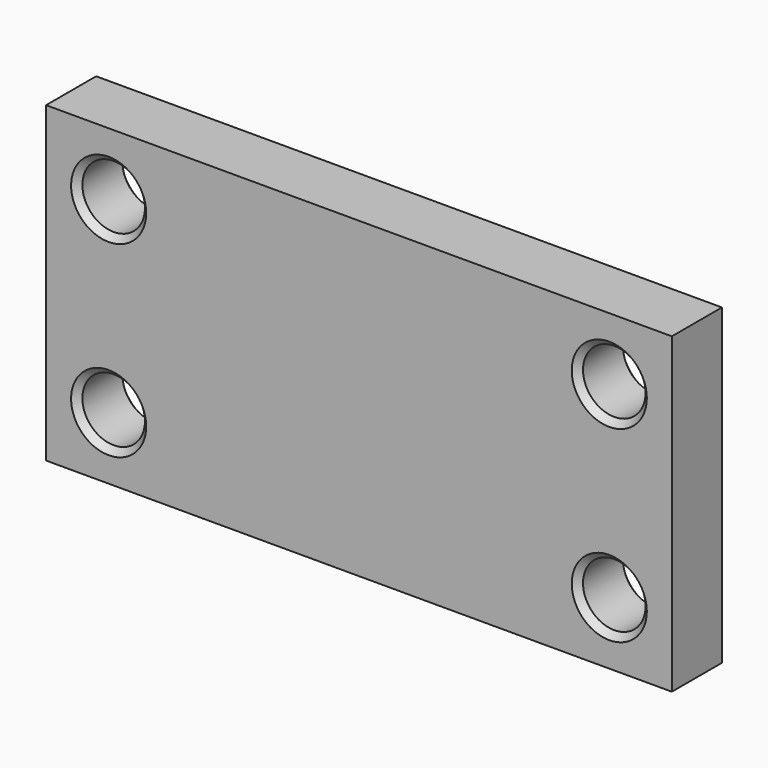
from build123d import *

# Parameters (mm, degrees)
F0_W     = 100
F0_H     = 50
F0_R     = 5
F1_DEPTH = 10
F2_SIZE  = 1
F3_SIZE  = 1
F4_SIZE  = 1


with BuildPart() as f1:
    # F0 (on Front) → F1 (new body)
    with BuildSketch(Plane.XZ):
        Rectangle(F0_W, F0_H)
        with Locations((-40, -15)):
            Circle(F0_R, mode=Mode.SUBTRACT)
        with Locations((40, -15)):
            Circle(F0_R, mode=Mode.SUBTRACT)
        with Locations((-40, 15)):
            Circle(F0_R, mode=Mode.SUBTRACT)
        with Locations((40, 15)):
            Circle(F0_R, mode=Mode.SUBTRACT)
    extrude(amount=F1_DEPTH)

    # F2
    f2_edges = [f1.edges().sort_by_distance(p)[0] for p in [
        (-45, -10, 15),
        (-45, -10, -15),
    ]]
    chamfer(f2_edges, length=F2_SIZE)

    # F3
    f3_edges = [f1.edges().sort_by_distance(p)[0] for p in [
        (35, -10, 15),
        (35, -10, -15),
    ]]
    chamfer(f3_edges, length=F3_SIZE)

    # F4
    f4_edges = [f1.edges().sort_by_distance(p)[0] for p in [
        (35, 0, 15),
        (-45, 0, 15),
        (-45, 0, -15),
        (35, 0, -15),
    ]]
    chamfer(f4_edges, length=F4_SIZE)


solid = f1.part
